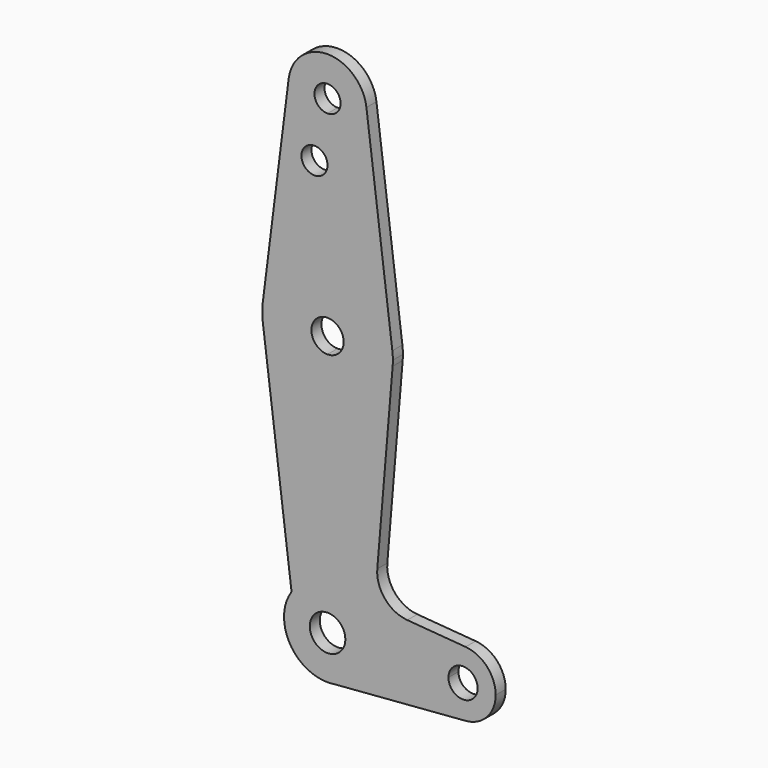
from build123d import *

# Parameters (mm, degrees)
F0_R     = 3.175
F1_DEPTH = 3.048


with BuildPart() as f1:
    # F0 (on Front) → F1 (new body)
    with BuildSketch(Plane.XZ):
        with BuildLine():
            ThreePointArc((0, 59.5809938932), (-3.9190061068, 63.5), (0, 67.4190061068))
            Line((0, 67.4190061068), (0, 79.375))
            ThreePointArc((0, 79.375), (-10.5003255158, 75.40625), (-15.7504882737, 65.484375))
            Line((-15.7504882737, 65.484375), (-15.7504882737, 61.515625))
            ThreePointArc((-15.7504882737, 61.515625), (-10.5003255158, 51.59375), (0, 47.625))
            Line((0, 47.625), (0, 59.5809938932))
        make_face()
        with BuildLine():
            Line((0, 79.375), (0, 67.4190061068))
            ThreePointArc((0, 67.4190061068), (2.7711557936, 66.2711557936), (3.9190061068, 63.5))
            ThreePointArc((3.9190061068, 63.5), (2.7711557936, 60.7288442064), (0, 59.5809938932))
            Line((0, 59.5809938932), (0, 47.625))
            ThreePointArc((0, 47.625), (10.7468179803, 51.8157572647), (15.8196447136, 62.1754373797))
            ThreePointArc((15.8196447136, 62.1754373797), (15.8611551412, 62.8371405988), (15.875, 63.5))
            ThreePointArc((15.875, 63.5), (15.8438414904, 64.4941387366), (15.7504882737, 65.484375))
            ThreePointArc((15.7504882737, 65.484375), (10.5003255158, 75.40625), (0, 79.375))
        make_face()
        with BuildLine():
            ThreePointArc((-15.7504882737, 65.484375), (-10.5003255158, 75.40625), (0, 79.375))
            Line((0, 79.375), (0, 100.0252))
            Line((0, 100.0252), (0, 104.775))
            ThreePointArc((0, 104.775), (-7.14375, 107.9998046905), (-9.4502929642, 115.490625))
            Line((-9.4502929642, 115.490625), (-15.7504882737, 65.484375))
        make_face()
        with Locations((-3.175, 100.0252)):
            Circle(F0_R, mode=Mode.SUBTRACT)
        with BuildLine():
            Line((0, 100.0252), (0, 79.375))
            ThreePointArc((0, 79.375), (10.5003255158, 75.40625), (15.7504882737, 65.484375))
            Line((15.7504882737, 65.484375), (9.4502929642, 115.490625))
            ThreePointArc((9.4502929642, 115.490625), (9.5063048942, 114.896483242), (9.525, 114.3))
            ThreePointArc((9.525, 114.3), (6.7351920908, 107.5648079092), (0, 104.775))
            Line((0, 104.775), (0, 100.0252))
        make_face()
        with BuildLine():
            Line((0, 10.5767495189), (0, 47.625))
            ThreePointArc((0, 47.625), (-10.5003255158, 51.59375), (-15.7504882737, 61.515625))
            Line((-15.7504882737, 61.515625), (-8.7490265409, 5.9432453232))
            ThreePointArc((-8.7490265409, 5.9432453232), (-4.9501218809, 9.3468670553), (0, 10.5767495189))
        make_face()
        with BuildLine():
            ThreePointArc((15.8196447136, 62.1754373797), (10.7468179803, 51.8157572647), (0, 47.625))
            Line((0, 47.625), (0, 10.5767495189))
            ThreePointArc((0, 10.5767495189), (7.4788913077, 7.4788913077), (10.5767495189, 0))
            Line((10.5767495189, 0), (24.9921450567, 0))
            ThreePointArc((24.9921450567, 0), (27.5436570711, 5.8305265344), (33.5578243434, 7.9126036823))
            Line((33.5578243434, 7.9126036823), (19.3829058745, 9.037946304))
            ThreePointArc((19.3829058745, 9.037946304), (13.9520765692, 11.8171520245), (12.0896121754, 17.6265511124))
            Line((12.0896121754, 17.6265511124), (15.8196447136, 62.1754373797))
        make_face()
        with BuildLine():
            Line((-15.7504882737, 61.515625), (-15.7504882737, 65.484375))
            ThreePointArc((-15.7504882737, 65.484375), (-15.875, 63.5), (-15.7504882737, 61.515625))
        make_face()
        with BuildLine():
            ThreePointArc((10.5767495189, 0), (7.4788913077, 7.4788913077), (0, 10.5767495189))
            ThreePointArc((0, 10.5767495189), (-4.9501218809, 9.3468670553), (-8.7490265409, 5.9432453232))
            ThreePointArc((-8.7490265409, 5.9432453232), (-9.3468670553, -4.9501218809), (0, -10.5767495189))
            Line((0, -10.5767495189), (1.6688517724, -10.4442598659))
            ThreePointArc((1.6688517724, -10.4442598659), (8.0473181112, -6.8635487616), (10.5767495189, 0))
        make_face()
        with BuildLine():
            ThreePointArc((4.322937818, 0), (-3.0567786457, -3.0567786457), (0, 4.322937818))
            ThreePointArc((0, 4.322937818), (3.0567786457, 3.0567786457), (4.322937818, 0))
        make_face(mode=Mode.SUBTRACT)
        with BuildLine():
            ThreePointArc((-9.4502929642, 115.490625), (-7.14375, 107.9998046905), (0, 104.775))
            ThreePointArc((0, 104.775), (6.7351920908, 107.5648079092), (9.525, 114.3))
            ThreePointArc((9.525, 114.3), (9.5063048942, 114.896483242), (9.4502929642, 115.490625))
            ThreePointArc((9.4502929642, 115.490625), (0, 123.825), (-9.4502929642, 115.490625))
        make_face()
        with BuildLine():
            ThreePointArc((3.175, 114.3), (2.2450640303, 112.0549359697), (0, 111.125))
            ThreePointArc((0, 111.125), (-2.2450640303, 116.5450640303), (3.175, 114.3))
        make_face(mode=Mode.SUBTRACT)
        with BuildLine():
            Line((24.9921450567, 0), (10.5767495189, 0))
            ThreePointArc((10.5767495189, 0), (8.0473181112, -6.8635487616), (1.6688517724, -10.4442598659))
            Line((1.6688517724, -10.4442598659), (33.5578243434, -7.9126036823))
            ThreePointArc((33.5578243434, -7.9126036823), (27.5436570711, -5.8305265344), (24.9921450567, 0))
        make_face()
        with BuildLine():
            Line((1.6688517724, -10.4442598659), (0, -10.5767495189))
            ThreePointArc((0, -10.5767495189), (0.8370513345, -10.5435750791), (1.6688517724, -10.4442598659))
        make_face()
        with BuildLine():
            ThreePointArc((33.5578243434, 7.9126036823), (27.5436570711, 5.8305265344), (24.9921450567, 0))
            ThreePointArc((24.9921450567, 0), (27.5436570711, -5.8305265344), (33.5578243434, -7.9126036823))
            ThreePointArc((33.5578243434, -7.9126036823), (38.7601715912, -5.3859879856), (40.8671450567, 0))
            ThreePointArc((40.8671450567, 0), (38.7601715912, 5.3859879856), (33.5578243434, 7.9126036823))
        make_face()
        with BuildLine():
            ThreePointArc((36.4792131905, 0), (32.9296450567, -3.5495681337), (29.380076923, 0))
            ThreePointArc((29.380076923, 0), (32.9296450567, 3.5495681337), (36.4792131905, 0))
        make_face(mode=Mode.SUBTRACT)
    extrude(amount=F1_DEPTH)


solid = f1.part
